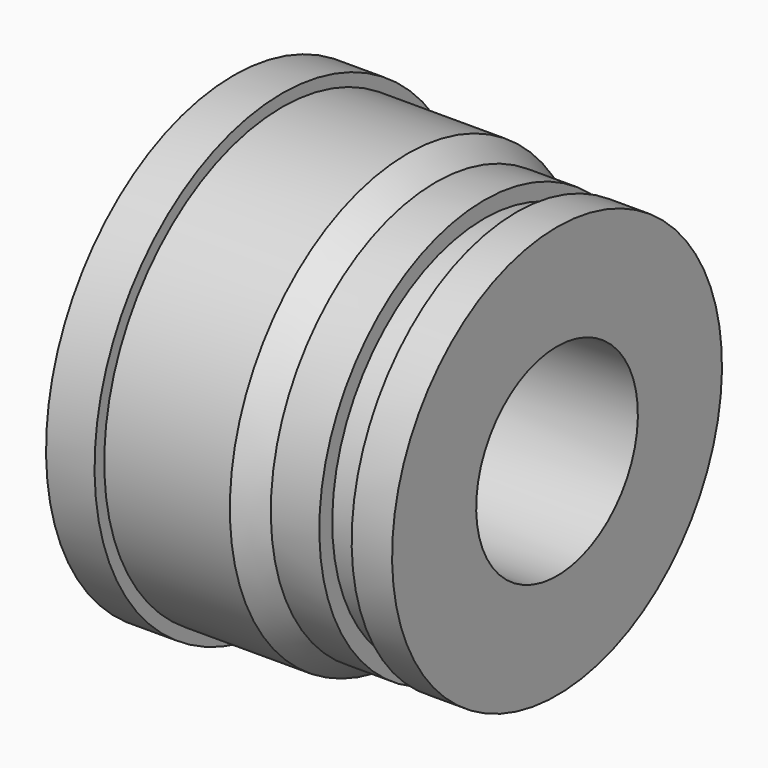
from build123d import *


with BuildPart() as f2:
    # F1 (on Front) → F2 (revolve)
    with BuildSketch(Plane.XZ):
        Polygon((54.704313, 29), (54.704313, 14), (56.704313, 14), (56.704313, 16), (60.704313, 16), (60.704313, 12.5), (66.704313, 12.5), (66.704313, 18), (76.704313, 18), (76.704313, 12.5), (94.704313, 12.5), (94.704313, 25.5), (89.704313, 25.5), (89.704313, 23.5), (85.704313, 23.5), (85.704313, 25.5), (79.704313, 25.5), (76.240212, 27.5), (60.704313, 27.5), (60.704313, 29), align=None)
    revolve(axis=Axis((75.945826, 0, 0), (1, 0, 0)))


solid = f2.part
